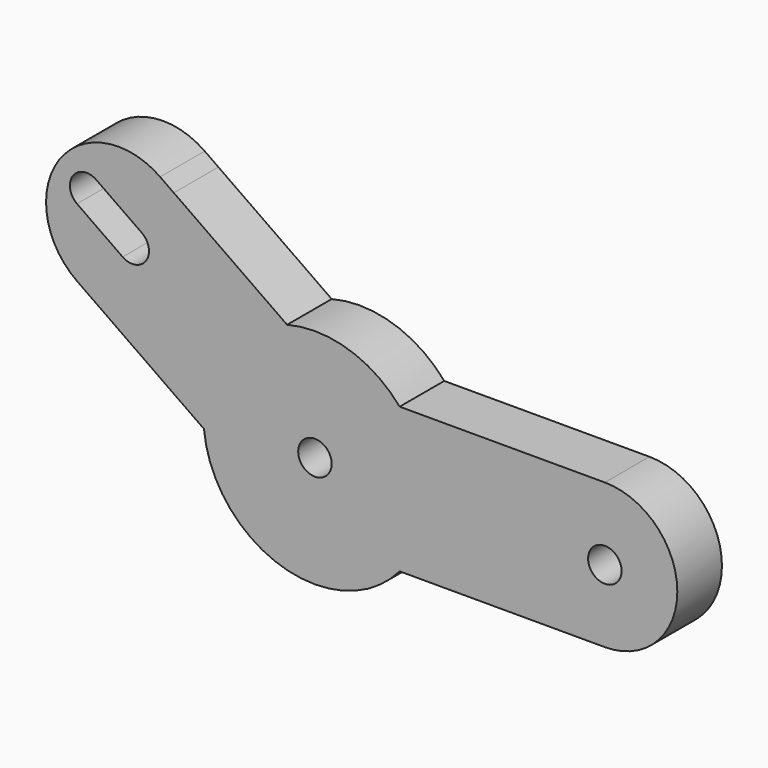
from build123d import *

# Parameters (mm, degrees)
F1_DEPTH = 5


with BuildPart() as f1:
    # F0 (on Front) → F1 (new body)
    with BuildSketch(Plane.XZ):
        with BuildLine():
            ThreePointArc((-9.953263, -0.965685), (-9.671383, 2.542509), (-8.19152, 5.735764))
            ThreePointArc((-8.19152, 5.735764), (-5.696984, 8.218538), (-2.49677, 9.683292))
            Line((-2.49677, 9.683292), (-12.654794, 16.796017))
            Line((-12.654794, 16.796017), (-13.883522, 17.656382))
            ThreePointArc((-13.883522, 17.656382), (-22.936257, 16.06014), (-21.340016, 7.007405))
            Line((-21.340016, 7.007405), (-20.111288, 6.14704))
            Line((-20.111288, 6.14704), (-9.953263, -0.965685))
        make_face()
        with BuildLine():
            ThreePointArc((-15.522676, 12.700257), (-14.905829, 11.732001), (-15.154313, 10.611164))
            ThreePointArc((-15.154313, 10.611164), (-16.122569, 9.994317), (-17.243406, 10.242801))
            Line((-17.243406, 10.242801), (-21.339166, 13.110683))
            ThreePointArc((-21.339166, 13.110683), (-21.707529, 15.199776), (-19.618436, 15.568139))
            Line((-19.618436, 15.568139), (-15.522676, 12.700257))
        make_face(mode=Mode.SUBTRACT)
        with BuildLine():
            ThreePointArc((-1.228728, 0.860365), (0.451059, 1.430575), (1.5, 0))
            Line((1.5, 0), (10, 0))
            ThreePointArc((10, 0), (9.380656, 3.464576), (7.599342, 6.5))
            ThreePointArc((7.599342, 6.5), (3.007058, 9.53717), (-2.49677, 9.683292))
            ThreePointArc((-2.49677, 9.683292), (-5.696984, 8.218538), (-8.19152, 5.735764))
            Line((-8.19152, 5.735764), (-1.228728, 0.860365))
        make_face()
        with BuildLine():
            Line((10, 0), (1.5, 0))
            ThreePointArc((1.5, 0), (-0.451059, -1.430575), (-1.228728, 0.860365))
            Line((-1.228728, 0.860365), (-8.19152, 5.735764))
            ThreePointArc((-8.19152, 5.735764), (-9.671383, 2.542509), (-9.953263, -0.965685))
            ThreePointArc((-9.953263, -0.965685), (-3.007058, -9.53717), (7.599342, -6.5))
            ThreePointArc((7.599342, -6.5), (9.380656, -3.464576), (10, 0))
        make_face()
        with BuildLine():
            ThreePointArc((7.599342, 6.5), (9.380656, 3.464576), (10, 0))
            ThreePointArc((10, 0), (9.380656, -3.464576), (7.599342, -6.5))
            Line((7.599342, -6.5), (26, -6.5))
            ThreePointArc((26, -6.5), (32.5, 0), (26, 6.5))
            Line((26, 6.5), (7.599342, 6.5))
        make_face()
        with BuildLine():
            ThreePointArc((27.5, 0), (26, -1.5), (24.5, 0))
            ThreePointArc((24.5, 0), (26, 1.5), (27.5, 0))
        make_face(mode=Mode.SUBTRACT)
    extrude(amount=F1_DEPTH)


solid = f1.part
